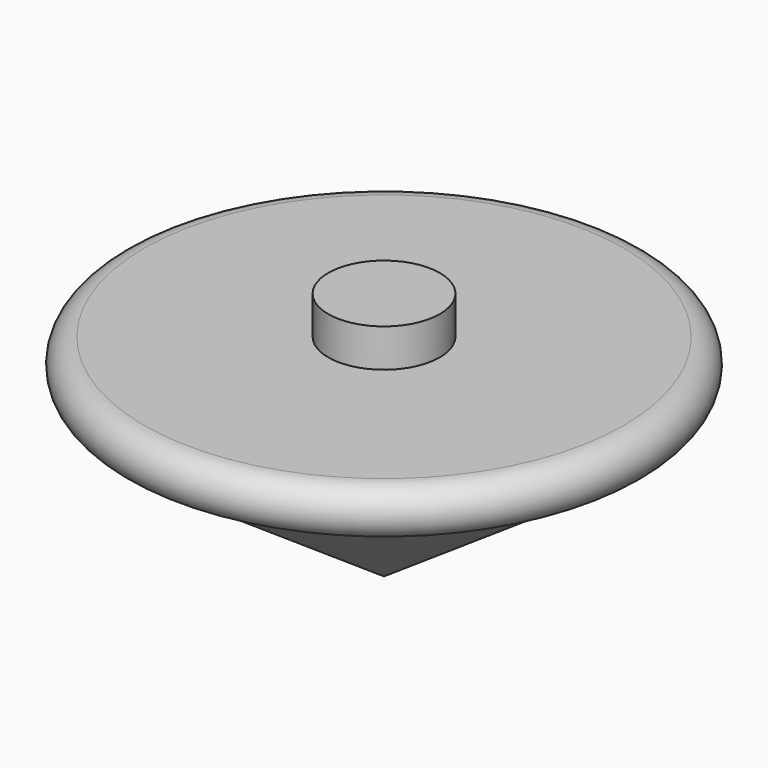
from build123d import *

# Parameters (mm, degrees)
F0_W = 13.34822
F0_H = 9.126824


with BuildPart() as f1:
    # F0 (on Front) → F1 (revolve)
    with BuildSketch(Plane.XZ):
        Polygon((0, 44.717919), (0, 5.699343), (57.431836, 44.717919), align=None)
        with BuildLine():
            Line((0, 56.19641), (0, 44.717919))
            Line((0, 44.717919), (57.431836, 44.717919))
            ThreePointArc((57.431836, 44.717919), (63.171081, 50.457165), (57.431836, 56.19641))
            Line((57.431836, 56.19641), (13.34822, 56.19641))
            Line((13.34822, 56.19641), (0, 56.19641))
        make_face()
        with Locations((6.67411, 60.759822)):
            Rectangle(F0_W, F0_H)
    revolve(axis=Axis((0, 0, 35.511288), (0, 0, 1)))


solid = f1.part
